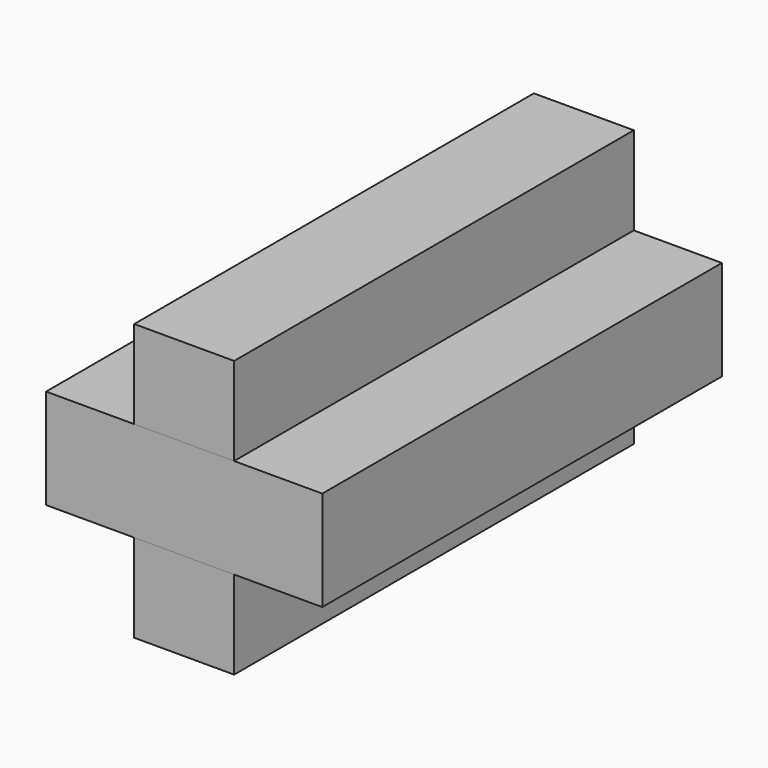
from build123d import *

# Parameters (mm, degrees)
F0_W     = 1.7
F0_H     = 4.7
F2_DEPTH = 8.5
F1_W     = 4.7
F1_H     = 1.7


with BuildPart() as f2:
    # F0 (on Front) → F2 (new body)
    with BuildSketch(Plane.XZ):
        Rectangle(F0_W, F0_H)
    extrude(amount=F2_DEPTH)


with BuildPart() as f2b:
    # F1 (on Front) → F2, piece 2 (new body)
    with BuildSketch(Plane.XZ):
        Rectangle(F1_W, F1_H)
    extrude(amount=F2_DEPTH)


solid = Compound([f2.part, f2b.part])
